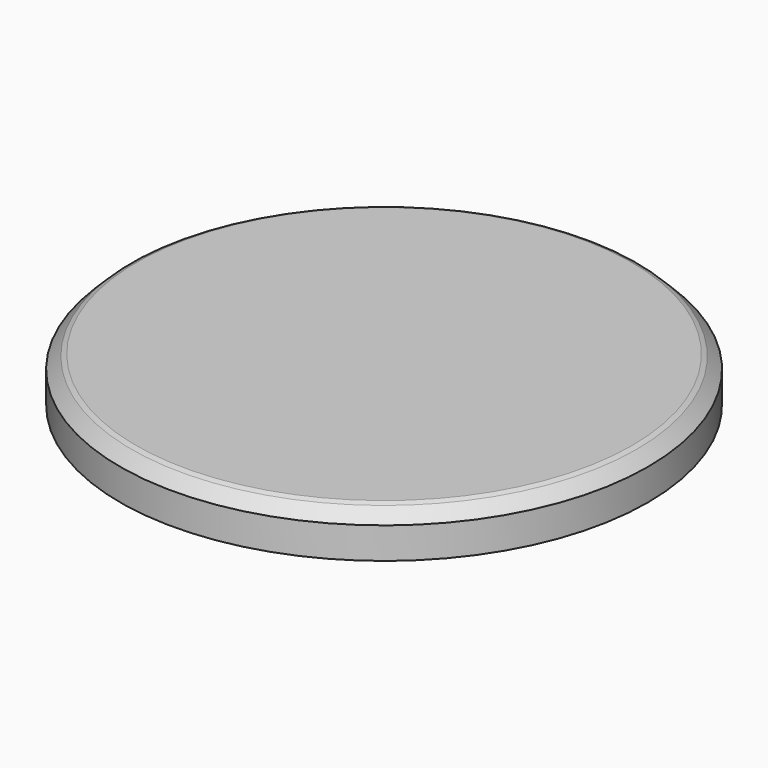
from build123d import *

# Parameters (mm, degrees)
SKETCH006_R     = 29.5
PAD004_DEPTH    = 5
THICKNESS_T     = -2.3
CHAMFER_SIZE    = 1.5
CHAMFER001_SIZE = 0.3


with BuildPart() as part:
    # Sketch006 → Pad004 (new body)
    with BuildSketch(Plane.XY):
        Circle(SKETCH006_R)
    extrude(amount=PAD004_DEPTH)

    # Thickness
    thickness_openings = [part.faces().sort_by_distance(p)[0] for p in [
        (0, 0, 0),
    ]]
    offset(amount=THICKNESS_T, openings=thickness_openings)

    # Chamfer
    chamfer_edges = [part.edges().sort_by_distance(p)[0] for p in [
        (-29.5, 0, 5),
    ]]
    chamfer(chamfer_edges, length=CHAMFER_SIZE)

    # Chamfer001
    chamfer001_edges = [part.edges().sort_by_distance(p)[0] for p in [
        (-28, 0, 5),
    ]]
    chamfer(chamfer001_edges, length=CHAMFER001_SIZE)


with BuildPart() as part_1:
    # Body002 placement: moved
    add(part.part.moved(Location((0, 0, 2))))


solid = part_1.part
